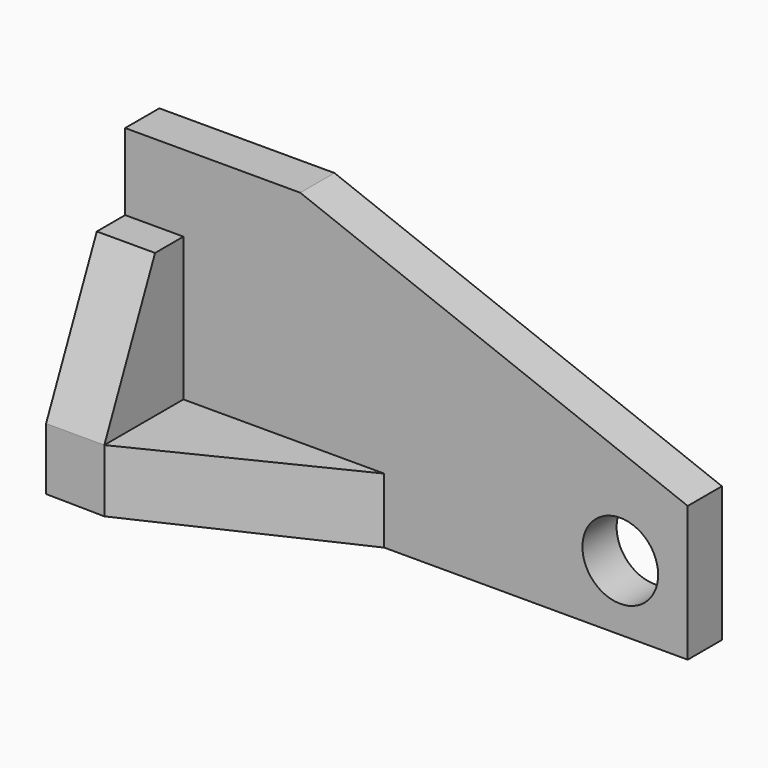
from build123d import *

# Parameters (mm, degrees)
F0_W      = 106.971476227
F0_H      = 54.2144235224
F1_DEPTH  = 8.128
F3_DEPTH  = 25.4
F4_R      = 7.2003845792
F5_DEPTH  = 25.4
F7_DEPTH  = 18.796
F9_DEPTH  = 25.4
F11_DEPTH = 25.4


with BuildPart() as f1:
    # F0 (on Front) → F1 (new body)
    with BuildSketch(Plane.XZ):
        with Locations((-3.0604917556, 14.7195057943)):
            Rectangle(F0_W, F0_H)
    extrude(amount=F1_DEPTH)

    # F2 (on face) → F3 (cut)
    with BuildSketch(Plane.XZ.offset(8.128)):
        Polygon((50.4252463579, 41.8267175555), (-23.2532570529, 41.8267175555), (50.4252463579, 13.3497529124), align=None)
    extrude(amount=-F3_DEPTH, mode=Mode.SUBTRACT)

    # F4 (on face) → F5 (cut)
    with BuildSketch(Plane.XZ.offset(8.128)):
        with Locations((37.6003310084, 0)):
            Circle(F4_R)
    extrude(amount=-F5_DEPTH, mode=Mode.SUBTRACT)

    # F6 (on face) → F7 (join)
    with BuildSketch(Plane.XZ.offset(8.128)):
        Polygon((-45.4701632261, 27.2529497743), (-56.5462298691, 27.2529497743), (-56.5462298691, -11.8047548458), (-7.286884822, -12.3877059668), (-7.286884822, 0), (-45.4701632261, 0), align=None)
    extrude(amount=F7_DEPTH)

    # F8 (on face) → F9 (cut)
    with BuildSketch(Plane.XY):
        Polygon((-7.286884822, -8.128), (-45.4701632261, -26.924), (-7.286884822, -26.924), align=None)
    extrude(amount=-F9_DEPTH, mode=Mode.SUBTRACT)

    # F10 (on face) → F11 (cut)
    with BuildSketch(Plane.YZ.offset(-45.4701632261)):
        Polygon((-26.924, 27.2529497743), (-26.924, 0), (-14.8652466014, 27.2529497743), align=None)
    extrude(amount=-F11_DEPTH, mode=Mode.SUBTRACT)


solid = f1.part
